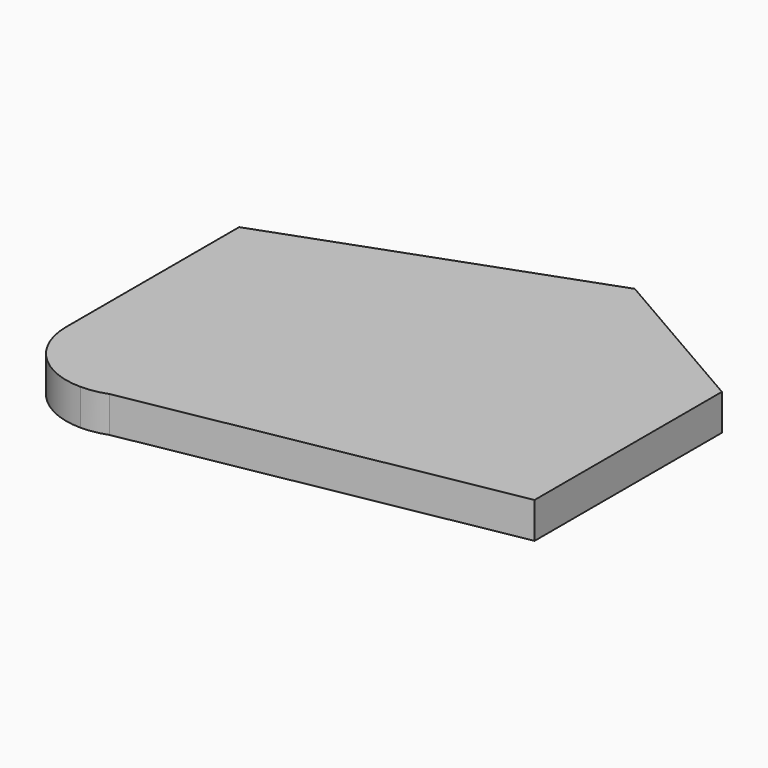
from build123d import *

# Parameters (mm, degrees)
F1_DEPTH = 25.4


with BuildPart() as f1:
    # F0 (on Top) → F1 (new body)
    with BuildSketch(Plane.XY):
        with BuildLine():
            Line((34.00621, -112.865897), (295.52461, -65.317097))
            Line((295.52461, -65.317097), (295.52461, 99.782903))
            Line((295.52461, 99.782903), (181.341427, 165.706594))
            Line((181.341427, 165.706594), (-34.67539, 87.082903))
            Line((-34.67539, 87.082903), (-34.67539, -65.317097))
            ThreePointArc((-34.67539, -65.317097), (-19.796415, -101.238122), (16.12461, -116.117097))
            Line((16.12461, -116.117097), (34.00621, -112.865897))
        make_face()
        with BuildLine():
            ThreePointArc((16.12461, -116.117097), (25.21199, -115.297689), (34.00621, -112.865897))
            Line((34.00621, -112.865897), (16.12461, -116.117097))
        make_face()
    extrude(amount=F1_DEPTH)


solid = f1.part
